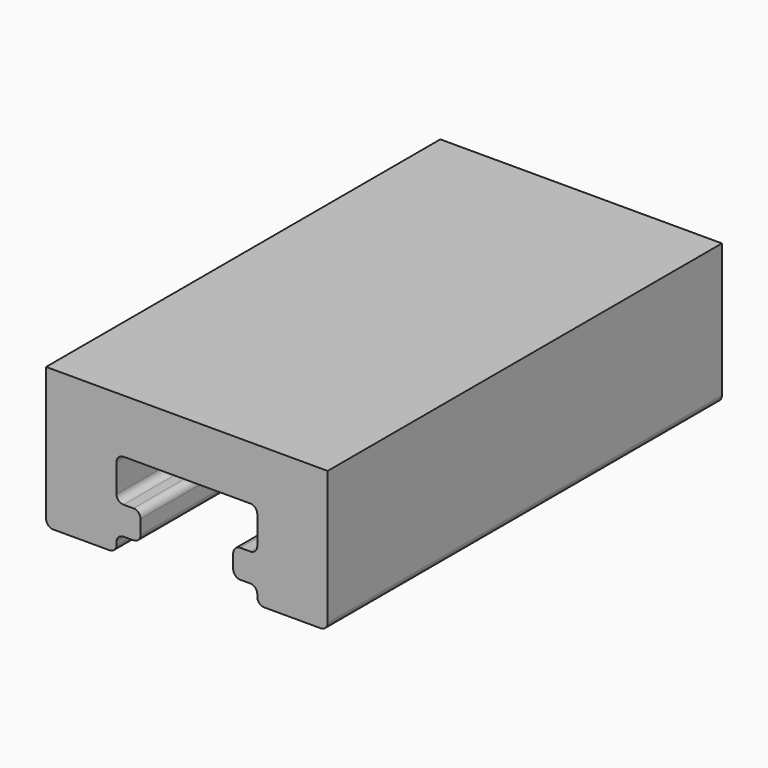
from build123d import *

# Parameters (mm, degrees)
F1_DEPTH = 44.45
F2_R     = 0.635


with BuildPart() as f1:
    # F0 (on Front) → F1 (new body)
    with BuildSketch(Plane.XZ):
        Polygon((5.428227, -4.902473), (5.428227, -6.394492), (11.778227, -6.394492), (11.778227, 6.305508), (-13.621773, 6.305508), (-13.621773, -6.394492), (-7.271773, -6.394492), (-7.271773, -4.902473), (-5.101115, -4.902473), (-5.101115, -2.362473), (-7.271773, -2.362473), (-7.271773, 1.447527), (5.428227, 1.447527), (5.428227, -2.362473), (3.257568, -2.362473), (3.257568, -4.902473), align=None)
    extrude(amount=F1_DEPTH)

    # F2
    f2_edges = [f1.edges().sort_by_distance(p)[0] for p in [
        (-7.271773, -22.225, 1.447527),
        (-7.271773, -22.225, -2.362473),
        (-5.101115, -22.225, -2.362473),
        (-5.101115, -22.225, -4.902473),
        (-7.271773, -22.225, -4.902473),
        (5.428227, -22.225, 1.447527),
        (5.428227, -22.225, -2.362473),
        (3.257568, -22.225, -2.362473),
        (3.257568, -22.225, -4.902473),
        (5.428227, -22.225, -4.902473),
        (-7.271773, -22.225, -6.394492),
        (5.428227, -22.225, -6.394492),
        (11.778227, -22.225, -6.394492),
        (-13.621773, -22.225, -6.394492),
    ]]
    fillet(f2_edges, radius=F2_R)


solid = f1.part
